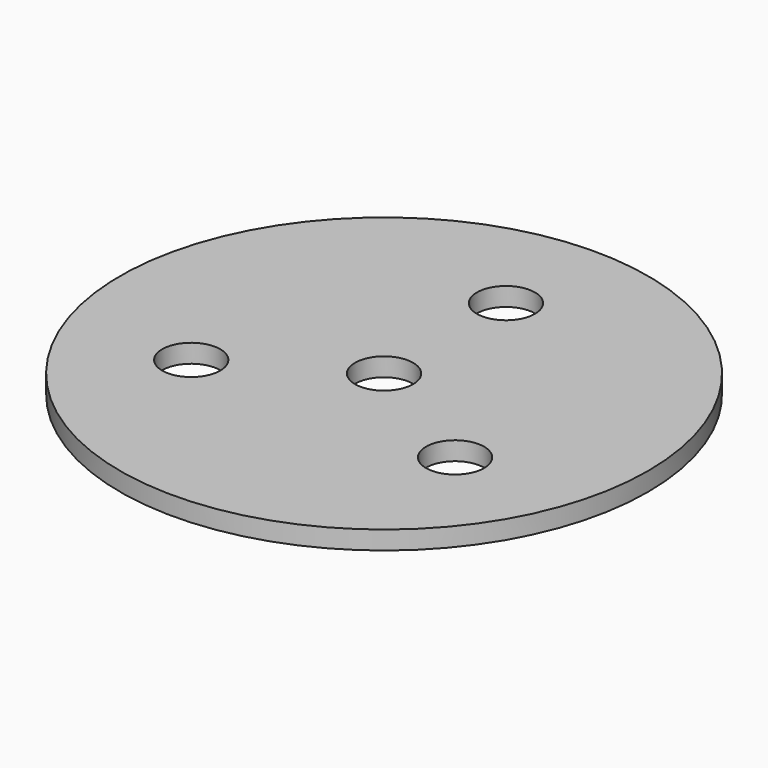
from build123d import *

# Parameters (mm, degrees)
F0_R     = 100
F1_DEPTH = 7
F2_R     = 11
F3_DEPTH = 25


with BuildPart() as f1:
    # F0 (on Top) → F1 (new body)
    with BuildSketch(Plane.XY):
        Circle(F0_R)
    extrude(amount=F1_DEPTH)

    # F2 (on Top) → F3 (cut)
    with BuildSketch(Plane.XY):
        Circle(F2_R)
        with Locations((0, 57.71517)):
            Circle(F2_R)
        with Locations((-49.982803, -28.857585)):
            Circle(F2_R)
        with Locations((49.982803, -28.857585)):
            Circle(F2_R)
    extrude(amount=F3_DEPTH, mode=Mode.SUBTRACT)


solid = f1.part
